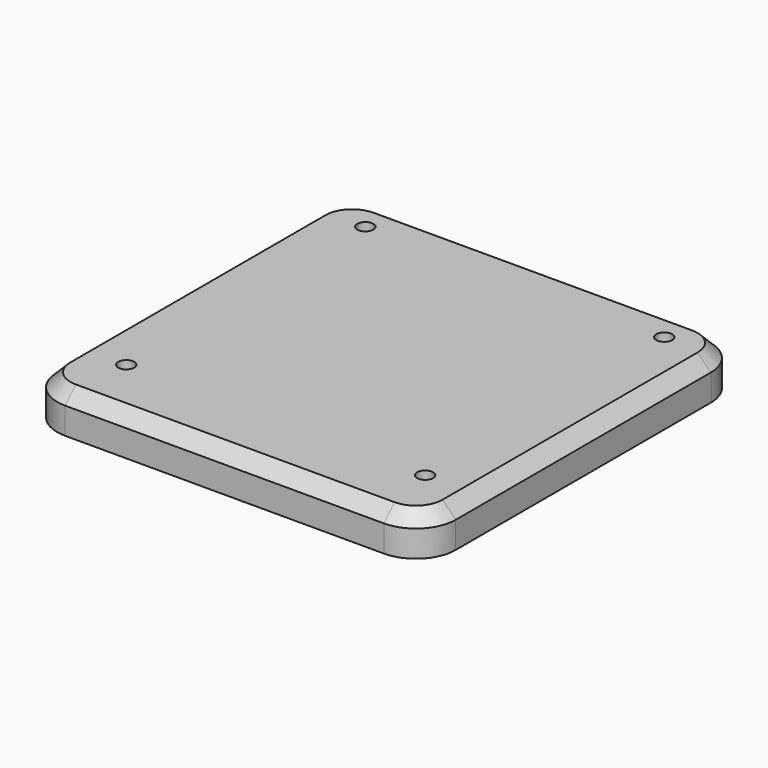
from build123d import *

# Parameters (mm, degrees)
F1_DEPTH = 30
F3_D     = 12
F3_DEPTH = 10
F3_TIP   = 3.6051637142
F4_SIZE2 = 10
F4_SIZE  = 10
F6_D     = 12
F6_DEPTH = 10
F6_TIP   = 3.6051637142


with BuildPart() as f1:
    # F0 (on Top) → F1 (new body)
    with BuildSketch(Plane.XY):
        with BuildLine():
            Line((95.8808709681, 182.3743300438), (-144.1191290319, 182.3743300438))
            ThreePointArc((-144.1191290319, 182.3743300438), (-165.3323324675, 173.5875334794), (-174.1191290319, 152.3743300438))
            Line((-174.1191290319, 152.3743300438), (-174.1191290319, -87.6256699562))
            ThreePointArc((-174.1191290319, -87.6256699562), (-165.3323324675, -108.8388733918), (-144.1191290319, -117.6256699562))
            Line((-144.1191290319, -117.6256699562), (95.8808709681, -117.6256699562))
            ThreePointArc((95.8808709681, -117.6256699562), (117.0940744037, -108.8388733918), (125.8808709681, -87.6256699562))
            Line((125.8808709681, -87.6256699562), (125.8808709681, 152.3743300438))
            ThreePointArc((125.8808709681, 152.3743300438), (117.0940744037, 173.5875334794), (95.8808709681, 182.3743300438))
        make_face()
    extrude(amount=F1_DEPTH)

    # F3
    with Locations(Plane.XY.offset(30)):
        with Locations((-136.6191290319, 155.4529928305), (88.3808709681, 155.4529928305), (-136.6191290319, -69.5470071695), (88.3808709681, -69.5470071695)):
            Hole(F3_D / 2, depth=F3_DEPTH)
            with Locations((0, 0, -(F3_DEPTH + F3_TIP / 2))):  # 118° drill point
                Cone(0, F3_D / 2, F3_TIP, mode=Mode.SUBTRACT)

    # F4
    f4_edges = [f1.edges().sort_by_distance(p)[0] for p in [
        (-165.332332, 173.587533, 30),
        (-174.119129, 32.37433, 30),
        (-165.332332, -108.838873, 30),
        (-24.119129, -117.62567, 30),
        (117.094074, -108.838873, 30),
        (125.880871, 32.37433, 30),
        (117.094074, 173.587533, 30),
        (-24.119129, 182.37433, 30),
    ]]
    chamfer(f4_edges, length=F4_SIZE, length2=F4_SIZE2)

    # F6
    with Locations(Plane(origin=(0, 0, 0), x_dir=(1, 0, 0), z_dir=(0, 0, -1))):
        with Locations((-149.1191290319, 87.6256699562), (100.8808709681, 87.6256699562), (-149.1191290319, -162.3743300438), (100.8808709681, -162.3743300438)):
            Hole(F6_D / 2, depth=F6_DEPTH)
            with Locations((0, 0, -(F6_DEPTH + F6_TIP / 2))):  # 118° drill point
                Cone(0, F6_D / 2, F6_TIP, mode=Mode.SUBTRACT)


solid = f1.part
